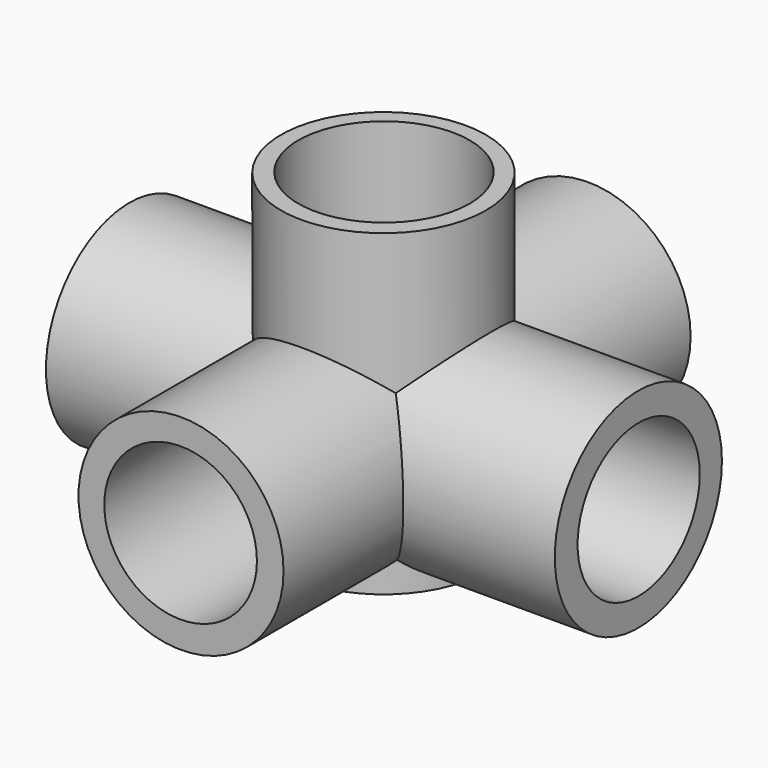
from build123d import *

# Parameters (mm, degrees)
F0_R          = 20.4722897729
F1_DEPTH      = 50.8
F1_DEPTH_BACK = 50.8
F2_R          = 20.4564593568
F3_DEPTH      = 63.5
F4_R          = 20.8575671835
F5_DEPTH      = 50.8
F5_DEPTH_BACK = 50.8
F7_D          = 30.48
F7_DEPTH      = 50.8010001
F9_D          = 30.48
F9_DEPTH      = 50.8010001
F10_D         = 30.48
F10_DEPTH     = 50.8010001
F12_D         = 30.48
F12_DEPTH     = 50.8010001
F13_R         = 17.1180717847
F14_DEPTH     = 84.582


with BuildPart() as f1:
    # F0 (on Front) → F1 (new body, two sides)
    with BuildSketch(Plane.XZ) as f1_sk:
        with Locations((0.0698582371, 20.5980222672)):
            Circle(F0_R)
    extrude(amount=F1_DEPTH)
    extrude(f1_sk.sketch, amount=-F1_DEPTH_BACK)

    # F2 (on Top) → F3 (join)
    with BuildSketch(Plane.XY):
        with Locations((0.0700604942, -0.2802451781)):
            Circle(F2_R)
    extrude(amount=F3_DEPTH)

    # F4 (on Right) → F5 (join, two sides)
    with BuildSketch(Plane.YZ) as f5_sk:
        with Locations((-0.070060727, 20.7381453365)):
            Circle(F4_R)
    extrude(amount=F5_DEPTH)
    extrude(f5_sk.sketch, amount=-F5_DEPTH_BACK)

    # F7 (through all, one way)
    with BuildSketch(Plane.YZ):
        with Locations((0.0089935729, 20.6102058291)):
            Circle(F7_D / 2)
    extrude(amount=-F7_DEPTH, mode=Mode.SUBTRACT)

    # F9 (through all, one way)
    with BuildSketch(Plane.XZ):
        with Locations((0.0698582371, 20.5980222672)):
            Circle(F9_D / 2)
    extrude(amount=-F9_DEPTH, mode=Mode.SUBTRACT)

    # F10 (through all, one way)
    with BuildSketch(Plane(origin=(0, 0, 0), x_dir=(0, 1, 0), z_dir=(-1, 0, 0))):
        with Locations((0.0132009118, -20.676555112)):
            Circle(F10_D / 2)
    extrude(amount=-F10_DEPTH, mode=Mode.SUBTRACT)

    # F12 (through all, one way)
    with BuildSketch(Plane(origin=(0, 0, 0), x_dir=(1, 0, 0), z_dir=(0, 1, 0))):
        with Locations((-0.0102481372, -20.6858739257)):
            Circle(F12_D / 2)
    extrude(amount=-F12_DEPTH, mode=Mode.SUBTRACT)

    # F13 (on Top) → F14 (cut)
    with BuildSketch(Plane.XY):
        with Locations((-0.0016765429, -0.0518179659)):
            Circle(F13_R)
    extrude(amount=F14_DEPTH, mode=Mode.SUBTRACT)


solid = f1.part
